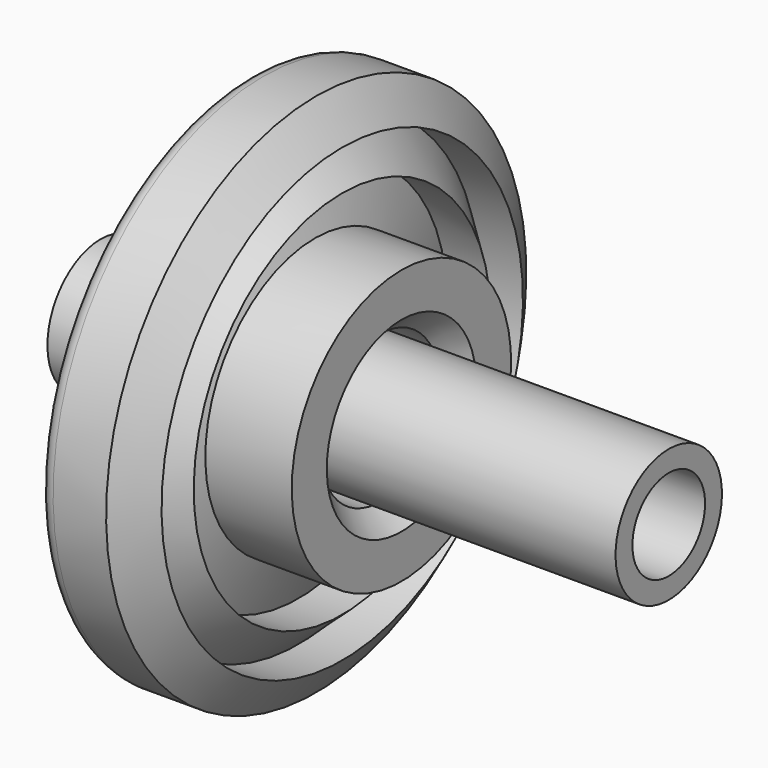
from build123d import *

# Parameters (mm, degrees)
F2_W = 195.3139863908
F2_H = 7.2472691536
F4_R = 5.08


with BuildPart() as f1:
    # F0 (on Front) → F1 (revolve)
    with BuildSketch(Plane.XZ):
        Polygon((0, 15.2238626033), (13.1343295798, 0), (45.2888123691, 0), (52.6151545346, 6.6764671355), (52.6151545346, 21.7361617833), (22.9027811438, 21.7361617833), (17.2045174986, 38.4239330888), (32.264214009, 38.4239330888), (17.2045174986, 52.262570709), (32.264214009, 52.262570709), (23.3097989112, 64.8801550269), (0, 64.8801550269), align=None)
    revolve(axis=Axis((35.5203598738, 0, -25.4), (1, 0, 0)))

    # F4
    f4_edges = [f1.edges().sort_by_distance(p)[0] for p in [
        (0, 0, -115.680155),
    ]]
    fillet(f4_edges, radius=F4_R)


with BuildPart() as f3:
    # F2 (on Front) → F3 (revolve)
    with BuildSketch(Plane.XZ):
        with Locations((46.8569931954, -6.1636345768)):
            Rectangle(F2_W, F2_H)
    revolve(axis=Axis((35.5203598738, 0, -25.4), (1, 0, 0)))


solid = Compound([f1.part, f3.part])
